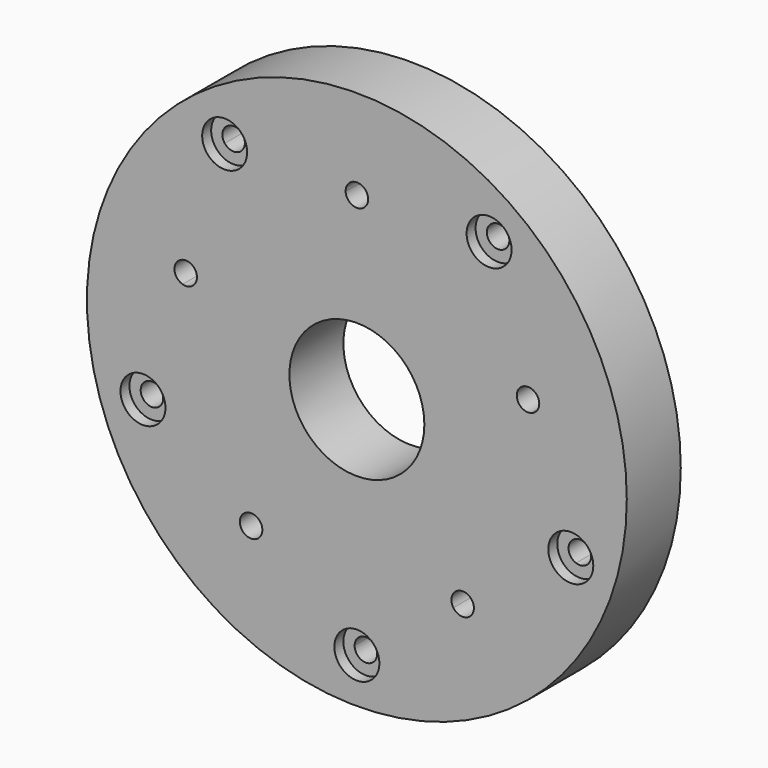
from build123d import *

# Parameters (mm, degrees)
F0_R     = 152.4
F0_R_2   = 38.1
F1_DEPTH = 38.1
F2_R     = 12.7
F3_DEPTH = 19.05
F4_R     = 12.7
F5_DEPTH = 6.35


with BuildPart() as f1:
    # F0 (on Front) → F1 (new body)
    with BuildSketch(Plane.XZ):
        with Locations((-14.28063, 39.245158)):
            Circle(F0_R)
        with BuildLine():
            ThreePointArc((65.410439, 138.130615), (100.283251, 94.054985), (112.71937, 39.245158))
            ThreePointArc((112.71937, 39.245158), (111.613264, 22.520101), (108.314212, 6.086378))
            ThreePointArc((108.314212, 6.086378), (111.593745, 3.796365), (112.853548, 0))
            ThreePointArc((112.853548, 0), (110.171472, -5.183516), (104.390923, -5.988265))
            ThreePointArc((104.390923, -5.988265), (60.368097, -63.5), (-7.932614, -87.596092))
            ThreePointArc((-7.932614, -87.596092), (-7.931126, -87.675461), (-7.93063, -87.754842))
            ThreePointArc((-7.93063, -87.754842), (-14.360011, -94.104346), (-20.628645, -87.596092))
            ThreePointArc((-20.628645, -87.596092), (-88.929357, -63.5), (-132.952182, -5.988265))
            ThreePointArc((-132.952182, -5.988265), (-141.104016, -1.962258), (-136.875472, 6.086378))
            ThreePointArc((-136.875472, 6.086378), (-135.064807, 78.490317), (-93.971698, 138.130615))
            ThreePointArc((-93.971698, 138.130615), (-92.661793, 147.127574), (-83.700394, 145.593155))
            ThreePointArc((-83.700394, 145.593155), (-14.28063, 166.245158), (55.139134, 145.593155))
            ThreePointArc((55.139134, 145.593155), (62.254706, 148.053584), (66.718097, 141.990317))
            ThreePointArc((66.718097, 141.990317), (66.382304, 139.952716), (65.410439, 138.130615))
        make_face(mode=Mode.SUBTRACT)
        with BuildLine():
            ThreePointArc((108.314212, 6.086378), (111.613264, 22.520101), (112.71937, 39.245158))
            ThreePointArc((112.71937, 39.245158), (100.283251, 94.054985), (65.410439, 138.130615))
            ThreePointArc((65.410439, 138.130615), (56.635661, 136.853059), (55.139134, 145.593155))
            ThreePointArc((55.139134, 145.593155), (-14.28063, 166.245158), (-83.700394, 145.593155))
            ThreePointArc((-83.700394, 145.593155), (-82.86609, 143.876925), (-82.579357, 141.990317))
            ThreePointArc((-82.579357, 141.990317), (-86.891756, 135.97611), (-93.971698, 138.130615))
            ThreePointArc((-93.971698, 138.130615), (-135.064807, 78.490317), (-136.875472, 6.086378))
            ThreePointArc((-136.875472, 6.086378), (-131.268442, 5.090197), (-128.714807, 0))
            ThreePointArc((-128.714807, 0), (-129.881292, -3.667924), (-132.952182, -5.988265))
            ThreePointArc((-132.952182, -5.988265), (-88.929357, -63.5), (-20.628645, -87.596092))
            ThreePointArc((-20.628645, -87.596092), (-14.28063, -81.404842), (-7.932614, -87.596092))
            ThreePointArc((-7.932614, -87.596092), (60.368097, -63.5), (104.390923, -5.988265))
            ThreePointArc((104.390923, -5.988265), (100.464339, 1.962258), (108.314212, 6.086378))
        make_face()
        with BuildLine():
            ThreePointArc((84.119287, 64.543705), (86.516175, 51.995227), (87.31937, 39.245158))
            ThreePointArc((87.31937, 39.245158), (77.64284, -4.028803), (50.456462, -39.059816))
            ThreePointArc((50.456462, -39.059816), (51.446159, -40.894576), (51.788352, -42.950968))
            ThreePointArc((51.788352, -42.950968), (47.305996, -49.020104), (40.186964, -46.521042))
            ThreePointArc((40.186964, -46.521042), (-14.28063, -62.354842), (-68.748224, -46.521042))
            ThreePointArc((-68.748224, -46.521042), (-77.732048, -48.088226), (-79.017722, -39.059816))
            ThreePointArc((-79.017722, -39.059816), (-110.907972, 7.849032), (-112.680546, 64.543705))
            ThreePointArc((-112.680546, 64.543705), (-116.947181, 72.603543), (-108.757947, 76.616224))
            ThreePointArc((-108.757947, 76.616224), (-73.999611, 121.441285), (-20.627528, 140.646721))
            ThreePointArc((-20.627528, 140.646721), (-14.379861, 147.194383), (-7.93063, 140.845158))
            ThreePointArc((-7.93063, 140.845158), (-7.931405, 140.745927), (-7.933731, 140.646721))
            ThreePointArc((-7.933731, 140.646721), (45.438352, 121.441285), (80.196688, 76.616224))
            ThreePointArc((80.196688, 76.616224), (85.998414, 75.836242), (88.696712, 70.641285))
            ThreePointArc((88.696712, 70.641285), (87.425017, 66.829025), (84.119287, 64.543705))
        make_face(mode=Mode.SUBTRACT)
        with BuildLine():
            ThreePointArc((50.456462, -39.059816), (77.64284, -4.028803), (87.31937, 39.245158))
            ThreePointArc((87.31937, 39.245158), (86.516175, 51.995227), (84.119287, 64.543705))
            ThreePointArc((84.119287, 64.543705), (76.307504, 68.679027), (80.196688, 76.616224))
            ThreePointArc((80.196688, 76.616224), (45.438352, 121.441285), (-7.933731, 140.646721))
            ThreePointArc((-7.933731, 140.646721), (-14.28063, 134.495158), (-20.627528, 140.646721))
            ThreePointArc((-20.627528, 140.646721), (-73.999611, 121.441285), (-108.757947, 76.616224))
            ThreePointArc((-108.757947, 76.616224), (-105.713015, 74.292986), (-104.557972, 70.641285))
            ThreePointArc((-104.557972, 70.641285), (-107.095712, 65.562981), (-112.680546, 64.543705))
            ThreePointArc((-112.680546, 64.543705), (-110.907972, 7.849032), (-79.017722, -39.059816))
            ThreePointArc((-79.017722, -39.059816), (-71.943219, -36.943161), (-67.649611, -42.950968))
            ThreePointArc((-67.649611, -42.950968), (-67.930476, -44.818612), (-68.748224, -46.521042))
            ThreePointArc((-68.748224, -46.521042), (-14.28063, -62.354842), (40.186964, -46.521042))
            ThreePointArc((40.186964, -46.521042), (41.705916, -37.81371), (50.456462, -39.059816))
        make_face()
        with Locations((-14.28063, 39.245158)):
            Circle(F0_R_2, mode=Mode.SUBTRACT)
    extrude(amount=F1_DEPTH)

    # F2 (on face) → F3 (cut)
    with BuildSketch(Plane(origin=(0, 0, 0), x_dir=(-1, 0, 0), z_dir=(0, 1, 0))):
        with Locations((14.28063, 140.845158)):
            Circle(F2_R)
        with Locations((-82.346712, 70.641285)):
            Circle(F2_R)
        with Locations((-45.438352, -42.950968)):
            Circle(F2_R)
        with Locations((73.999611, -42.950968)):
            Circle(F2_R)
        with Locations((110.907972, 70.641285)):
            Circle(F2_R)
    extrude(amount=-F3_DEPTH, mode=Mode.SUBTRACT)

    # F4 (on face) → F5 (cut)
    with BuildSketch(Plane.XZ.offset(38.1)):
        with Locations((-88.929357, 141.990317)):
            Circle(F4_R)
        with Locations((-135.064807, 0)):
            Circle(F4_R)
        with Locations((-14.28063, -87.754842)):
            Circle(F4_R)
        with Locations((106.503548, 0)):
            Circle(F4_R)
        with Locations((60.368097, 141.990317)):
            Circle(F4_R)
    extrude(amount=-F5_DEPTH, mode=Mode.SUBTRACT)


solid = f1.part
